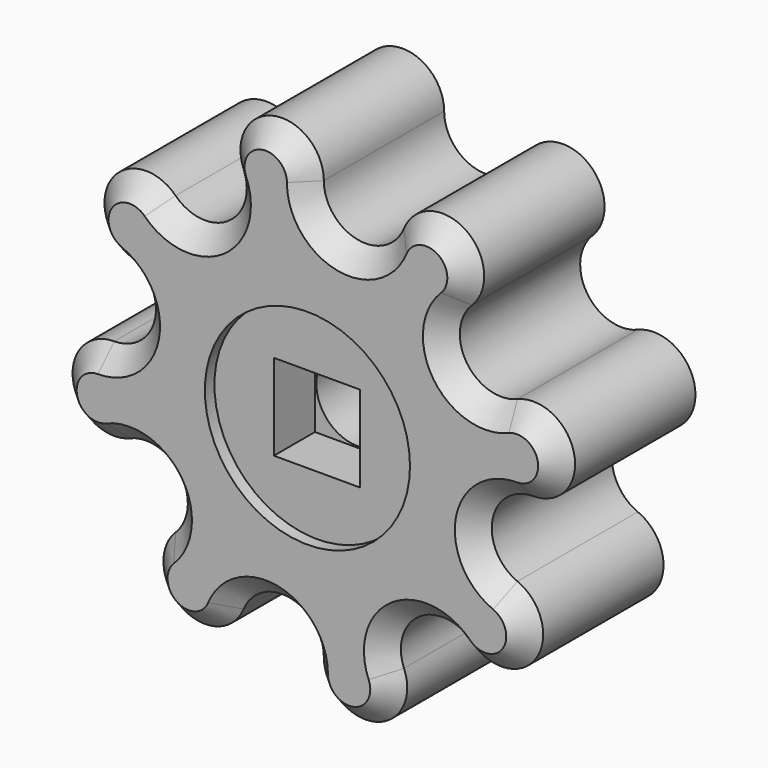
from build123d import *

# Parameters (mm, degrees)
F1_DEPTH = 12.7
F2_COUNT = 8
F3_SIZE  = 1.524
F4_R     = 7.62
F5_DEPTH = 0.889
F6_W     = 6.4008
F6_H     = 6.4008
F7_DEPTH = 3.81
F8_R     = 3.0988
F9_DEPTH = 8.002


with BuildPart() as f1:
    # F0 (on Front) → F1 (new body)
    with BuildSketch(Plane.XZ):
        with BuildLine():
            Line((0, 0), (0, 15.5699663264))
            ThreePointArc((0, 15.5699663264), (-3.7012650727, 18.6075160708), (-5.9583681556, 14.3847732109))
            ThreePointArc((-5.9583681556, 14.3847732109), (-7.0990438342, 10.6244696981), (-11.00962894, 11.00962894))
            Line((-11.00962894, 11.00962894), (0, 0))
        make_face()
    extrude(amount=F1_DEPTH)

    # F2: F1 ×8 about axis
    f2_axis = Axis((0, -6.35, 0), (0, 1, 0))


with BuildPart() as f1_1:
    add(f1.part)
    for i in range(1, F2_COUNT):
        add(f1.part.rotate(f2_axis, i * 360 / F2_COUNT))

    # F3
    f3_edges = [f1_1.edges().sort_by_distance(p)[0] for p in [
        (-3.701265, -12.7, 18.607516),
    ]]
    chamfer(f3_edges, length=F3_SIZE)

    # F4 (on face) → F5 (cut)
    with BuildSketch(Plane.XZ.offset(12.7)):
        Circle(F4_R)
    extrude(amount=-F5_DEPTH, mode=Mode.SUBTRACT)

    # F6 (on face) → F7 (cut)
    with BuildSketch(Plane.XZ.offset(11.811)):
        Rectangle(F6_W, F6_H)
    extrude(amount=-F7_DEPTH, mode=Mode.SUBTRACT)

    # F8 (on face) → F9 (cut, through all)
    with BuildSketch(Plane.XZ.offset(8.001)):
        Circle(F8_R)
    extrude(amount=-F9_DEPTH, mode=Mode.SUBTRACT)


solid = f1_1.part
